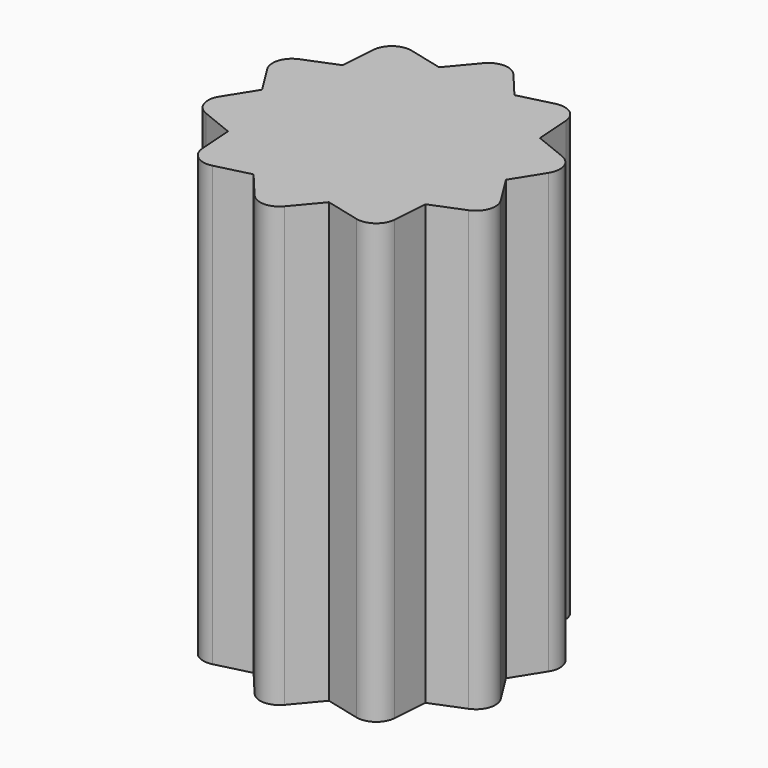
from build123d import *

# Parameters (mm, degrees)
F1_DEPTH       = 28.575
F3_D           = 5.5626
F3_DEPTH       = 11.43
F3_CBORE_D     = 6.858
F3_CBORE_DEPTH = 5.08
F3_TIP         = 1.6711736397


with BuildPart() as f1:
    # F0 (on Top) → F1 (new body)
    with BuildSketch(Plane.XY):
        with BuildLine():
            Line((2.4528223929, 7.5490110981), (0.9736080693, 9.3150838242))
            ThreePointArc((0.9736080693, 9.3150838242), (0, 9.7696162728), (-0.9736080693, 9.3150838242))
            Line((-0.9736080693, 9.3150838242), (-2.4528223929, 7.5490110981))
            Line((-2.4528223929, 7.5490110981), (-4.6876034218, 8.1083335825))
            ThreePointArc((-4.6876034218, 8.1083335825), (-5.7424363657, 7.9037855932), (-6.2629343697, 6.9637886532))
            Line((-6.2629343697, 6.9637886532), (-6.4215723929, 4.6655454401))
            Line((-6.4215723929, 4.6655454401), (-8.5583097316, 3.8044755043))
            ThreePointArc((-8.5583097316, 3.8044755043), (-9.291457218, 3.0189774568), (-9.1600326102, 1.9525629071))
            Line((-9.1600326102, 1.9525629071), (-7.9375, 0))
            Line((-7.9375, 0), (-9.1600326102, -1.9525629071))
            ThreePointArc((-9.1600326102, -1.9525629071), (-9.291457218, -3.0189774568), (-8.5583097316, -3.8044755043))
            Line((-8.5583097316, -3.8044755043), (-6.4215723929, -4.6655454401))
            Line((-6.4215723929, -4.6655454401), (-6.2629343697, -6.9637886532))
            ThreePointArc((-6.2629343697, -6.9637886532), (-5.7424363657, -7.9037855932), (-4.6876034218, -8.1083335825))
            Line((-4.6876034218, -8.1083335825), (-2.4528223929, -7.5490110981))
            Line((-2.4528223929, -7.5490110981), (-0.9736080693, -9.3150838242))
            ThreePointArc((-0.9736080693, -9.3150838242), (0, -9.7696162728), (0.9736080693, -9.3150838242))
            Line((0.9736080693, -9.3150838242), (2.4528223929, -7.5490110981))
            Line((2.4528223929, -7.5490110981), (4.6876034218, -8.1083335825))
            ThreePointArc((4.6876034218, -8.1083335825), (5.7424363657, -7.9037855932), (6.2629343697, -6.9637886532))
            Line((6.2629343697, -6.9637886532), (6.4215723929, -4.6655454401))
            Line((6.4215723929, -4.6655454401), (8.5583097316, -3.8044755043))
            ThreePointArc((8.5583097316, -3.8044755043), (9.291457218, -3.0189774568), (9.1600326102, -1.9525629071))
            Line((9.1600326102, -1.9525629071), (7.9375, 0))
            Line((7.9375, 0), (9.1600326102, 1.9525629071))
            ThreePointArc((9.1600326102, 1.9525629071), (9.291457218, 3.0189774568), (8.5583097316, 3.8044755043))
            Line((8.5583097316, 3.8044755043), (6.4215723929, 4.6655454401))
            Line((6.4215723929, 4.6655454401), (6.2629343697, 6.9637886532))
            ThreePointArc((6.2629343697, 6.9637886532), (5.7424363657, 7.9037855932), (4.6876034218, 8.1083335825))
            Line((4.6876034218, 8.1083335825), (2.4528223929, 7.5490110981))
        make_face()
    extrude(amount=F1_DEPTH)

    # F3
    with Locations(Plane(origin=(0, 0, 0), x_dir=(1, 0, 0), z_dir=(0, 0, -1))):
        with Locations((0, 0)):
            CounterBoreHole(F3_D / 2, F3_CBORE_D / 2, F3_CBORE_DEPTH, depth=F3_DEPTH)
            with Locations((0, 0, -(F3_DEPTH + F3_TIP / 2))):  # 118° drill point
                Cone(0, F3_D / 2, F3_TIP, mode=Mode.SUBTRACT)


solid = f1.part
